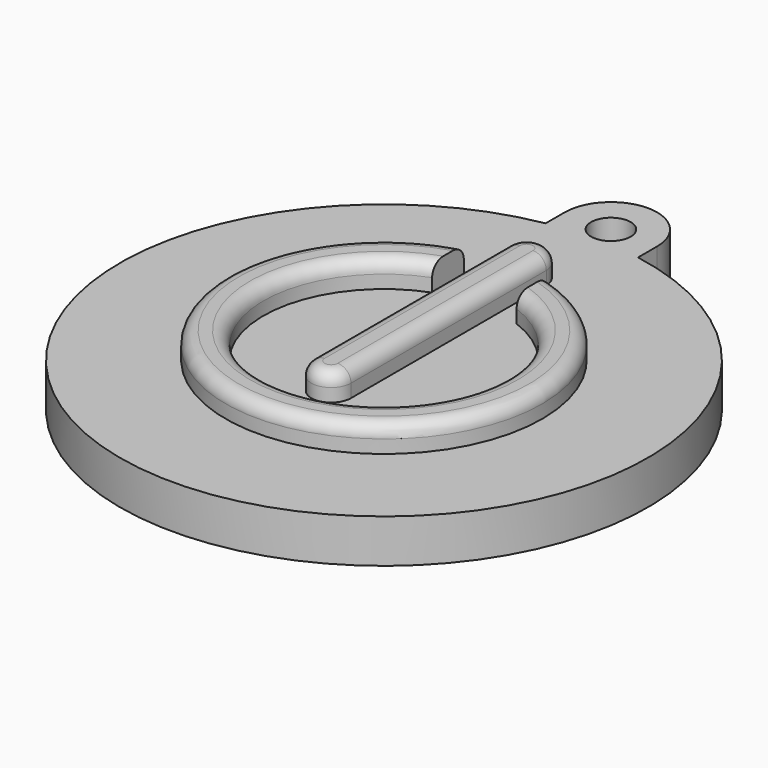
from build123d import *

# Parameters (mm, degrees)
EXTRUDE_DEPTH = 3.3
SKETCH001_R   = 1.5
POCKET_DEPTH  = 3.301
PAD_DEPTH     = 2
FILLET_R      = 1
FILLET001_R   = 1
FILLET002_R   = 1


with BuildPart() as part:
    # Sketch → Extrude (new body)
    with BuildSketch(Plane.XY):
        with BuildLine():
            ThreePointArc((3.5, 21.5), (0, 25), (-3.5, 21.5))
            Line((-3.5, 21.5), (-3.5, 19.691369))
            ThreePointArc((-3.5, 19.691369), (0, -20), (3.5, 19.691369))
            Line((3.5, 19.691369), (3.5, 21.5))
        make_face()
    extrude(amount=EXTRUDE_DEPTH)

    # Sketch001 → Pocket (cut, through all)
    with BuildSketch(Plane.XY.offset(3.3)):
        with Locations((0, 21.5)):
            Circle(SKETCH001_R)
    extrude(amount=-POCKET_DEPTH, mode=Mode.SUBTRACT)

    # Sketch002 → Pad (new body)
    with BuildSketch(Plane.XY.offset(3.3)):
        with BuildLine():
            Line((-1.5, 13.5), (-1.5, -5))
            ThreePointArc((-1.5, -5), (0, -6.5), (1.5, -5))
            Line((1.5, 13.5), (1.5, -5))
            ThreePointArc((1.5, 13.5), (0, 15.000005), (-1.5, 13.5))
        make_face()
        with BuildLine():
            ThreePointArc((-3.2, 8.565466), (0, -9.143698), (3.2, 8.565466))
            Line((3.2, 11.565466), (3.2, 8.565466))
            ThreePointArc((-3.2, 11.565466), (0, -12), (3.2, 11.565466))
            Line((-3.2, 11.565466), (-3.2, 8.565466))
        make_face()
    extrude(amount=PAD_DEPTH)

    # Fillet
    fillet_edges = [part.edges().sort_by_distance(p)[0] for p in [
        (0, -12, 5.3),
    ]]
    fillet(fillet_edges, radius=FILLET_R)

    # Fillet001
    fillet001_edges = [part.edges().sort_by_distance(p)[0] for p in [
        (0, -9.143698, 5.3),
    ]]
    fillet(fillet001_edges, radius=FILLET001_R)

    # Fillet002
    fillet002_edges = [part.edges().sort_by_distance(p)[0] for p in [
        (1.5, 4.25, 5.3),
    ]]
    fillet(fillet002_edges, radius=FILLET002_R)


solid = part.part
